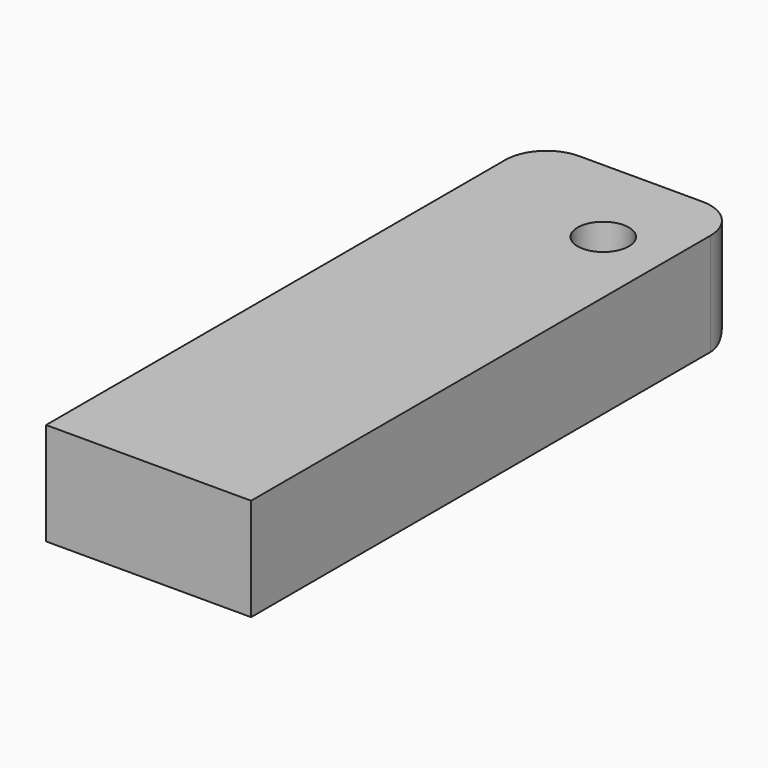
from build123d import *

# Parameters (mm, degrees)
F0_W     = 25.4
F0_H     = 76.2
F1_DEPTH = 12.7
F3_D     = 6.35
F5_DEPTH = 5.08
F6_R     = 5.08


with BuildPart() as f1:
    # F0 (on Top) → F1 (new body)
    with BuildSketch(Plane.XY):
        with Locations((12.7, -20.335565)):
            Rectangle(F0_W, F0_H)
    extrude(amount=F1_DEPTH)

    # F3 (through all)
    with Locations(Plane.XY.offset(12.7)):
        with Locations((17.470095, 5.998946)):
            Hole(F3_D / 2)

    # F4 (on Front) → F5 (join)
    with BuildSketch(Plane.XZ):
        with BuildLine():
            Line((13.889657, 0), (9.24853, 0))
            Line((9.24853, 0), (4.607402, 0))
            ThreePointArc((4.607402, 0), (3.231891, -4.050694), (4.607402, -8.101388))
            ThreePointArc((4.607402, -8.101388), (5.886924, -8.185929), (6.245447, -6.954757))
            ThreePointArc((6.245447, -6.954757), (5.325208, -5.387091), (5.299789, -3.569464))
            ThreePointArc((5.299789, -3.569464), (5.695978, -2.181126), (6.900665, -1.385403))
            ThreePointArc((6.900665, -1.385403), (8.074597, -1.140454), (9.24853, -1.385403))
            ThreePointArc((9.24853, -1.385403), (10.422462, -1.140454), (11.596394, -1.385403))
            ThreePointArc((11.596394, -1.385403), (12.801081, -2.181126), (13.19727, -3.569464))
            ThreePointArc((13.19727, -3.569464), (13.171851, -5.387091), (12.251612, -6.954757))
            ThreePointArc((12.251612, -6.954757), (12.610135, -8.185929), (13.889657, -8.101388))
            ThreePointArc((13.889657, -8.101388), (15.265168, -4.050694), (13.889657, 0))
        make_face()
    extrude(amount=F5_DEPTH)

    # F6
    f6_edges = [f1.edges().sort_by_distance(p)[0] for p in [
        (0, 17.764435, 6.35),
        (25.4, 17.764435, 6.35),
        (12.7, 17.764435, 0),
    ]]
    fillet(f6_edges, radius=F6_R)


solid = f1.part
